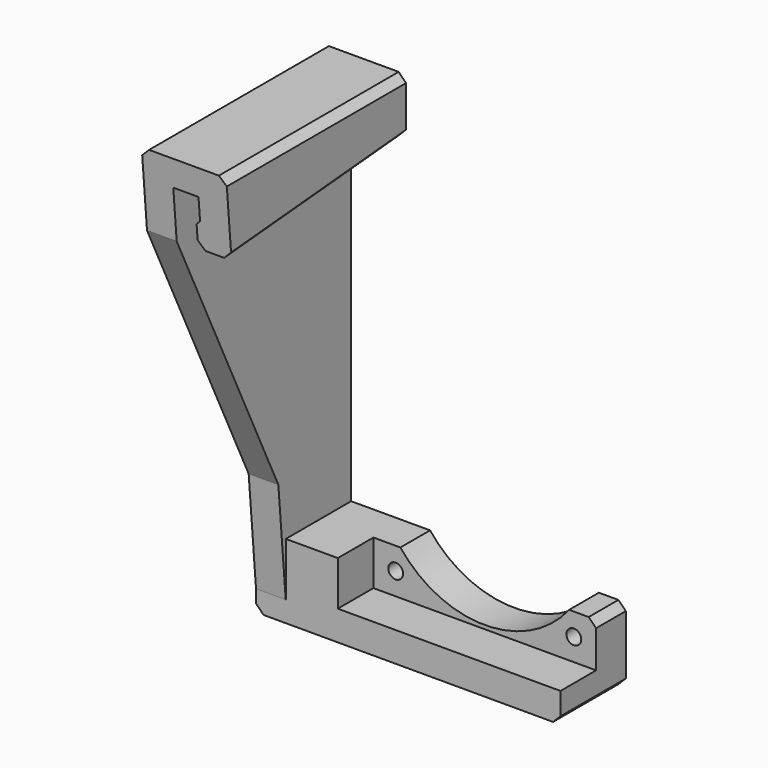
from build123d import *

# Parameters (mm, degrees)
SKETCH002_W          = 34
SKETCH002_H          = 4
PAD001_DEPTH         = 30
EXTRUSION008_DEPTH   = 13.9308213426
BOX003_W             = 13
BOX003_H             = 10
BOX003_DEPTH         = 60
FACE006_W            = 8.14
FACE006_H            = 69.180787832
EXTRUSION006_DEPTH   = 0.4604923972
EXTRUSION005_DEPTH   = 8.14
FACE003_W            = 4
FACE003_H            = 14
EXTRUSION003_DEPTH   = 3.51
FACE004_W            = 3.51
FACE004_H            = 4
EXTRUSION004_DEPTH   = 69.180787832
FACE007_W            = 4
FACE007_H            = 69.180787832
EXTRUSION007_DEPTH   = 0.4131433628
FACE002_W            = 10
FACE002_H            = 4
EXTRUSION002_DEPTH   = 14
EXTRUSION_DEPTH      = 10
EXTRUSION001_DEPTH   = 10
FUSION001_ROLL_ANGLE = 5.0006445976
BOX002_W             = 13
BOX002_H             = 13
BOX002_DEPTH         = 49
BOX001_W             = 15
BOX001_H             = 11
BOX001_DEPTH         = 49
BOX_W                = 31
BOX_H                = 18
BOX_DEPTH            = 14
CYLINDER_R           = 14.5
CYLINDER_DEPTH       = 13
CYLINDER_ROLL_ANGLE  = 90.0000000001
SKETCH_R             = 1
PAD_DEPTH            = 11
CHAMFER_SIZE         = 1
CHAMFER001_SIZE      = 1
CHAMFER002_SIZE      = 1
CHAMFER003_SIZE      = 1
CHAMFER004_SIZE      = 1
CHAMFER005_SIZE      = 1
CHAMFER006_SIZE      = 1
EXTRUSION009_DEPTH   = 13.9308213426
POCKET_DEPTH         = 5
CHAMFER007_SIZE      = 1


with BuildPart() as pad001:
    # Sketch002 → Pad001 (new body)
    with BuildSketch(Plane.YZ):
        with Locations((-15, 58)):
            Rectangle(SKETCH002_W, SKETCH002_H)
    extrude(amount=PAD001_DEPTH)


with BuildPart() as extrusion008:
    # Face008 → Extrusion008 (new body)
    with BuildSketch(Plane(origin=(-17.578899357, -16.0333863028, 53.0614958622), x_dir=(-1, 0, 0), z_dir=(0, -0.9961937175, -0.0871669503))):
        Polygon((4.421100643, -4.5183191267), (4.421100643, -0.5183191267), (1.021100643, -0.5183191267), (1.021100643, 2.4816808733), (1.521100643, 2.9816808733), (1.521100643, 4.9816808733), (0.521100643, 5.9816808733), (-1.978899357, 5.9816808733), (-2.978899357, 4.9816808733), (-2.978899357, -3.5183191267), (-1.978899357, -4.5183191267), align=None)
    extrude(amount=EXTRUSION008_DEPTH)


with BuildPart() as cube003:
    # Box003 → Box003 (new body)
    with BuildSketch(Plane(origin=(-27, 0, 0), x_dir=(1, 0, 0), z_dir=(0, 0, 1))):
        with Locations((6.5, 5)):
            Rectangle(BOX003_W, BOX003_H)
    extrude(amount=BOX003_DEPTH)


with BuildPart() as extrusion006:
    # Face006 → Extrusion006 (new body)
    with BuildSketch(Plane(origin=(-17.93, -18.7549998831, 43.8980956594), x_dir=(-1, 0, 0), z_dir=(0, -0.9961937175, -0.0871669503))):
        Rectangle(FACE006_W, FACE006_H)
    extrude(amount=EXTRUSION006_DEPTH)


with BuildPart() as extrusion005:
    # Face005 → Extrusion005 (new body)
    with BuildSketch(Plane(origin=(-22, -17.0066799089, 44.0510736571), x_dir=(0, -1, 0), z_dir=(1, 0, 0))):
        Polygon((4.7634591209, -34.3057551071), (-1.2668191725, 34.6117111026), (-4.7634591209, 34.3057551071), (1.2668191725, -34.6117111026), align=None)
    extrude(amount=EXTRUSION005_DEPTH)


with BuildPart() as extrusion003:
    # Face003 → Extrusion003 (new body)
    with BuildSketch(Plane(origin=(-24, -15.1296920845, 2.4660065321), x_dir=(-1, 0, 0), z_dir=(0, -0.9961937175, -0.0871669503))):
        Rectangle(FACE003_W, FACE003_H)
    extrude(amount=-EXTRUSION003_DEPTH)


with BuildPart() as fusion002:
    # Face004 → Extrusion004 (new body)
    with BuildSketch(Plane(origin=(-24, -13.9915407622, 9.5923405523), x_dir=(0, 0.9961937175, 0.0871669503), z_dir=(0, -0.0871669503, 0.9961937175))):
        Rectangle(FACE004_W, FACE004_H)
    extrude(amount=EXTRUSION004_DEPTH)

    # Fusion002: union Extrusion003
    add(extrusion003.part)


with BuildPart() as fusion003:
    # Face007 → Extrusion007 (new body)
    with BuildSketch(Plane(origin=(-24, -18.7549998831, 43.8980956594), x_dir=(-1, 0, 0), z_dir=(0, -0.9961937175, -0.0871669503))):
        Rectangle(FACE007_W, FACE007_H)
    extrude(amount=EXTRUSION007_DEPTH)

    # Fusion003: union Extrusion006, Extrusion005, Fusion002
    add(extrusion006.part)
    add(extrusion005.part)
    add(fusion002.part)


with BuildPart() as extrusion002:
    # Face002 → Extrusion002 (new body)
    with BuildSketch(Plane(origin=(-24, -15, 11), x_dir=(0, -1, 0), z_dir=(0, 0, -1))):
        Rectangle(FACE002_W, FACE002_H)
    extrude(amount=EXTRUSION002_DEPTH)


with BuildPart() as extrusion:
    # Face → Extrusion (new body)
    with BuildSketch(Plane(origin=(-22.5493005697, -10, 39.3433444568), x_dir=(-1, 0, 0), z_dir=(0, -1, 0))):
        Polygon((3.4506994303, 28.3433444568), (-0.5493005697, 28.3433444568), (-0.5493005697, -15.6566555432), (-3.9493005697, -15.6566555432), (-3.9493005697, -12.6566555432), (-3.4493005697, -12.1566555432), (-3.4493005697, -10.1566555432), (-4.4493005697, -9.1566555432), (-6.9493005697, -9.1566555432), (-7.9493005697, -10.1566555432), (-7.9493005697, -18.6566555432), (-6.9493005697, -19.6566555432), (2.4506994303, -19.6566555432), (3.4506994303, -18.6566555432), align=None)
    extrude(amount=EXTRUSION_DEPTH)


with BuildPart() as cut005:
    # Face001 → Extrusion001 (new body)
    with BuildSketch(Plane(origin=(-22.5493005697, -10, 39.3433444568), x_dir=(1, 0, 0), z_dir=(0, 1, 0))):
        Polygon((0.5493005697, 28.3433444568), (-3.4506994303, 28.3433444568), (-3.4506994303, -18.6566555432), (-2.4506994303, -19.6566555432), (6.9493005697, -19.6566555432), (7.9493005697, -18.6566555432), (7.9493005697, -10.1566555432), (6.9493005697, -9.1566555432), (4.4493005697, -9.1566555432), (3.4493005697, -10.1566555432), (3.4493005697, -12.1566555432), (3.9493005697, -12.6566555432), (3.9493005697, -15.6566555432), (0.5493005697, -15.6566555432), align=None)
    extrude(amount=EXTRUSION001_DEPTH)

    # Fusion: union Extrusion
    add(extrusion.part)

    # Fusion001: union Extrusion002
    add(extrusion002.part)


with BuildPart() as cut005_1:
    # Fusion001 roll: moved
    add(cut005.part.rotate(Axis((0, 0, 0), (1, 0, 0)), FUSION001_ROLL_ANGLE))


with BuildPart() as cut005_2:
    # Fusion001 placement: moved
    add(cut005_1.part.moved(Location((0, 5.1428500666, 0.2245706677))))

    # Cut004: cut Fusion003
    add(fusion003.part, mode=Mode.SUBTRACT)

    # Cut005: cut Cube003
    add(cube003.part, mode=Mode.SUBTRACT)


with BuildPart() as cube002:
    # Box002 → Box002 (new body)
    with BuildSketch(Plane(origin=(-27, -12, 11), x_dir=(1, 0, 0), z_dir=(0, 0, 1))):
        with Locations((6.5, 6.5)):
            Rectangle(BOX002_W, BOX002_H)
    extrude(amount=BOX002_DEPTH)


with BuildPart() as cube001:
    # Box001 → Box001 (new body)
    with BuildSketch(Plane(origin=(-29, -21, 11), x_dir=(1, 0, 0), z_dir=(0, 0, 1))):
        with Locations((7.5, 5.5)):
            Rectangle(BOX001_W, BOX001_H)
    extrude(amount=BOX001_DEPTH)


with BuildPart() as cube:
    # Box → Box (new body)
    with BuildSketch(Plane(origin=(-15, -23, -3), x_dir=(1, 0, 0), z_dir=(0, 0, 1))):
        with Locations((15.5, 9)):
            Rectangle(BOX_W, BOX_H)
    extrude(amount=BOX_DEPTH)


with BuildPart() as cylinder:
    # Cylinder → Cylinder (new body)
    with BuildSketch(Plane.XY):
        Circle(CYLINDER_R)
    extrude(amount=CYLINDER_DEPTH)


with BuildPart() as cylinder_1:
    # Cylinder roll: moved
    add(cylinder.part.rotate(Axis((0, 0, 0), (1, 0, 0)), CYLINDER_ROLL_ANGLE))


with BuildPart() as cylinder_2:
    # Cylinder placement: moved
    add(cylinder_1.part.moved(Location((0, 1, 12))))


with BuildPart() as fusion004:
    # Sketch → Pad (new body)
    with BuildSketch(Plane.XZ):
        Polygon((15, -7), (15, 3), (-22, 3), (-22, 55), (-18.6, 55), (-18.6, 52), (-19.1, 51.5), (-19.1, 48.5), (-14.6, 48.5), (-14.6, 59), (-26, 59), (-26, -7), align=None)
        with Locations((-12, 0)):
            Circle(SKETCH_R, mode=Mode.SUBTRACT)
        with Locations((12, 0)):
            Circle(SKETCH_R, mode=Mode.SUBTRACT)
    extrude(amount=PAD_DEPTH)

    # Cut: cut Cylinder
    add(cylinder_2.part, mode=Mode.SUBTRACT)

    # Cut001: cut Cube
    add(cube.part, mode=Mode.SUBTRACT)

    # Chamfer
    chamfer_edges = [fusion004.edges().sort_by_distance(p)[0] for p in [
        (15, -5.5, -7),
    ]]
    chamfer(chamfer_edges, length=CHAMFER_SIZE)

    # Chamfer001
    chamfer001_edges = [fusion004.edges().sort_by_distance(p)[0] for p in [
        (-26, -5.5, -7),
    ]]
    chamfer(chamfer001_edges, length=CHAMFER001_SIZE)

    # Chamfer002
    chamfer002_edges = [fusion004.edges().sort_by_distance(p)[0] for p in [
        (-26, -5.5, 59),
    ]]
    chamfer(chamfer002_edges, length=CHAMFER002_SIZE)

    # Chamfer003
    chamfer003_edges = [fusion004.edges().sort_by_distance(p)[0] for p in [
        (-14.6, -5.5, 59),
    ]]
    chamfer(chamfer003_edges, length=CHAMFER003_SIZE)

    # Chamfer004
    chamfer004_edges = [fusion004.edges().sort_by_distance(p)[0] for p in [
        (-14.6, -5.5, 48.5),
    ]]
    chamfer(chamfer004_edges, length=CHAMFER004_SIZE)

    # Chamfer005
    chamfer005_edges = [fusion004.edges().sort_by_distance(p)[0] for p in [
        (-19.1, -5.5, 48.5),
    ]]
    chamfer(chamfer005_edges, length=CHAMFER005_SIZE)

    # Chamfer006
    chamfer006_edges = [fusion004.edges().sort_by_distance(p)[0] for p in [
        (15, -2.5, 3),
    ]]
    chamfer(chamfer006_edges, length=CHAMFER006_SIZE)

    # Cut002: cut Cube001
    add(cube001.part, mode=Mode.SUBTRACT)

    # Cut003: cut Cube002
    add(cube002.part, mode=Mode.SUBTRACT)

    # Fusion004: union Cut005
    add(cut005_2.part)


with BuildPart() as chamfer007:
    # Face009 → Extrusion009 (new body)
    with BuildSketch(Plane(origin=(-23.9956483899, -14.3298412993, 33.5924101077), x_dir=(-1, 0, 0), z_dir=(0, -0.9961937175, -0.0871669503))):
        Polygon((2.0043516101, 23.9382071366), (-1.9956483899, 23.9382071366), (-1.9956483899, -20.0617928634), (-1.9956483899, -24.0617928634), (1.0043516101, -24.0617928634), (2.0043516101, -23.0617928634), align=None)
    extrude(amount=EXTRUSION009_DEPTH)

    # Sketch001 → Pocket (cut)
    with BuildSketch(Plane.YZ.offset(-22)):
        Polygon((-12.153362, 9.710751), (-30, 47.063831), (-30, 0), align=None)
    extrude(amount=-POCKET_DEPTH, mode=Mode.SUBTRACT)

    # Fusion005: union Extrusion008, Fusion004
    add(extrusion008.part)
    add(fusion004.part)


with BuildPart() as chamfer007_1:
    # Fusion005 placement: moved
    add(chamfer007.part.moved(Location((30, 0, 0))))

    # Cut006: cut Pad001
    add(pad001.part, mode=Mode.SUBTRACT)

    # Chamfer007
    chamfer007_edges = [chamfer007_1.edges().sort_by_distance(p)[0] for p in [
        (4, -11.406738, 56),
        (15.4, -11.406738, 56),
    ]]
    chamfer(chamfer007_edges, length=CHAMFER007_SIZE)


solid = chamfer007_1.part
